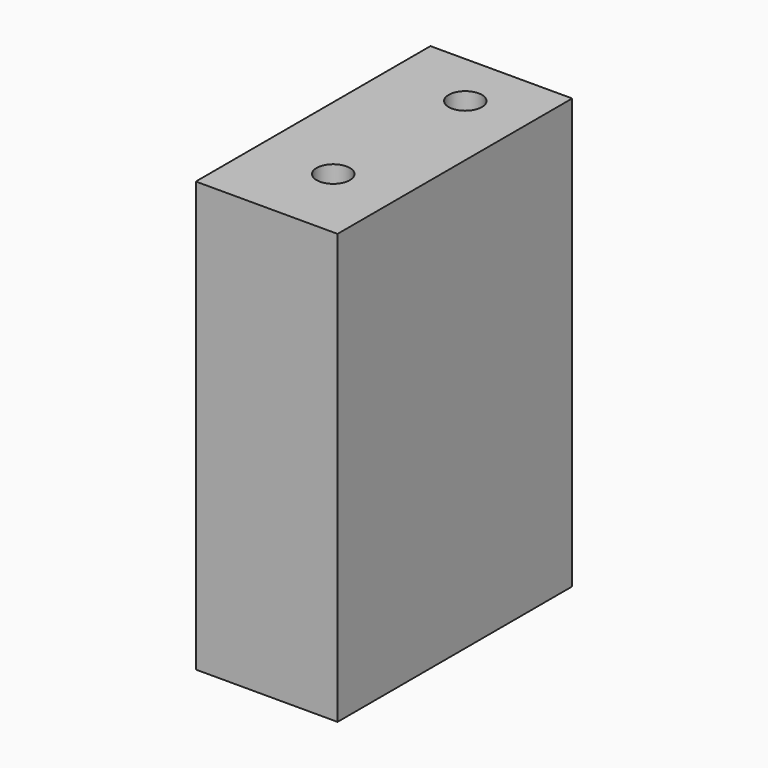
from build123d import *

# Parameters (mm, degrees)
F0_W      = 99.9017828144
F0_H      = 47.2273882478
F1_DEPTH  = 152.4
F2_DEPTH  = 50.8
F3_DEPTH  = 50.8
F4_DEPTH  = 50.8
F5_DEPTH  = 50.8
F7_D      = 11.50874
F10_D     = 11.50874
F10_DEPTH = 76.2
F10_TIP   = 3.4575743203
F11_D     = 5.1054
F11_DEPTH = 76.2
F11_TIP   = 1.5338169022


with BuildPart() as f1:
    # F0 (on Front) → F1 (new body)
    with BuildSketch(Plane.XZ):
        with Locations((43.5557949822, 16.1829041317)):
            Rectangle(F0_W, F0_H)
    extrude(amount=F1_DEPTH)

    # F2 (add): a face of the model
    f2_faces = [f1.faces().sort_by_distance(p)[0] for p in [
        (43.5557949822, -76.2, 39.7965982556),
    ]]
    extrude(f2_faces, amount=F2_DEPTH)

    # F3 (add): a face of the model
    f3_faces = [f1.faces().sort_by_distance(p)[0] for p in [
        (43.5557949822, -76.2, 90.5965982556),
    ]]
    extrude(f3_faces, amount=F3_DEPTH)

    # F4 (cut): a face of the model
    f4_faces = [f1.faces().sort_by_distance(p)[0] for p in [
        (-6.395096425, -76.2, 66.9829041317),
    ]]
    extrude(f4_faces, amount=-F4_DEPTH, mode=Mode.SUBTRACT)

    # F5 (cut): a face of the model
    f5_faces = [f1.faces().sort_by_distance(p)[0] for p in [
        (68.9557949822, 0, 66.9829041317),
    ]]
    extrude(f5_faces, amount=-F5_DEPTH, mode=Mode.SUBTRACT)

    # F7 (through all)
    with Locations(Plane(origin=(0, 0, -7.4307899922), x_dir=(1, 0, 0), z_dir=(0, 0, -1))):
        with Locations((70.703163743, 125.7567703724), (71.8431398273, 70.0071305037)):
            Hole(F7_D / 2)

    # F10
    with Locations(Plane(origin=(0, 0, -7.4307899922), x_dir=(1, 0, 0), z_dir=(0, 0, -1))):
        with Locations((85.044786334, 99.7990220785)):
            Hole(F10_D / 2, depth=F10_DEPTH)
            with Locations((0, 0, -(F10_DEPTH + F10_TIP / 2))):  # 118° drill point
                Cone(0, F10_D / 2, F10_TIP, mode=Mode.SUBTRACT)

    # F11
    with Locations(Plane(origin=(0, 0, -7.4307899922), x_dir=(1, 0, 0), z_dir=(0, 0, -1))):
        with Locations((59.2490546405, 99.0386679769)):
            Hole(F11_D / 2, depth=F11_DEPTH)
            with Locations((0, 0, -(F11_DEPTH + F11_TIP / 2))):  # 118° drill point
                Cone(0, F11_D / 2, F11_TIP, mode=Mode.SUBTRACT)


solid = f1.part
